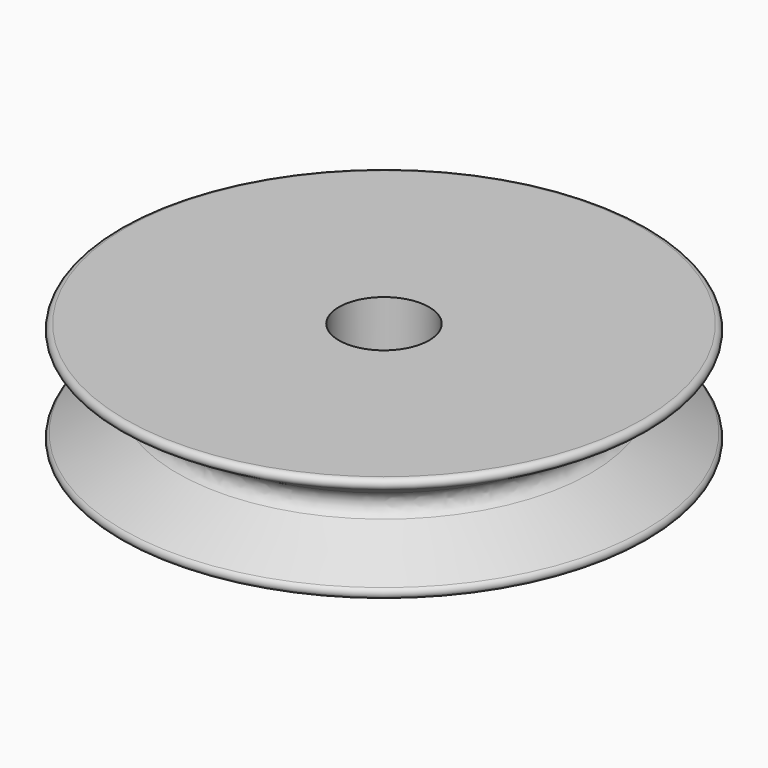
from build123d import *

# Parameters (mm, degrees)
F0_R     = 10.5
F0_R_2   = 1.7
F1_DEPTH = 4
F4_R     = 0.2
F5_R     = 0.5


with BuildPart() as f1:
    # F0 (on Top) → F1 (new body)
    with BuildSketch(Plane.XY):
        Circle(F0_R)
        Circle(F0_R_2, mode=Mode.SUBTRACT)
    extrude(amount=F1_DEPTH)

    # F2 (on Front) → F3 (revolve, cut)
    with BuildSketch(Plane.XZ):
        Polygon((-10.5, 4), (-10.5, 0), (-7.035898, 2), align=None)
    revolve(axis=Axis((0, 0, 4), (0, 0, 1)), mode=Mode.SUBTRACT)

    # F4
    f4_edges = [f1.edges().sort_by_distance(p)[0] for p in [
        (10.5, 0, 4),
        (10.5, 0, 0),
    ]]
    fillet(f4_edges, radius=F4_R)

    # F5
    f5_edges = [f1.edges().sort_by_distance(p)[0] for p in [
        (7.035898, 0, 2),
    ]]
    fillet(f5_edges, radius=F5_R)


solid = f1.part
